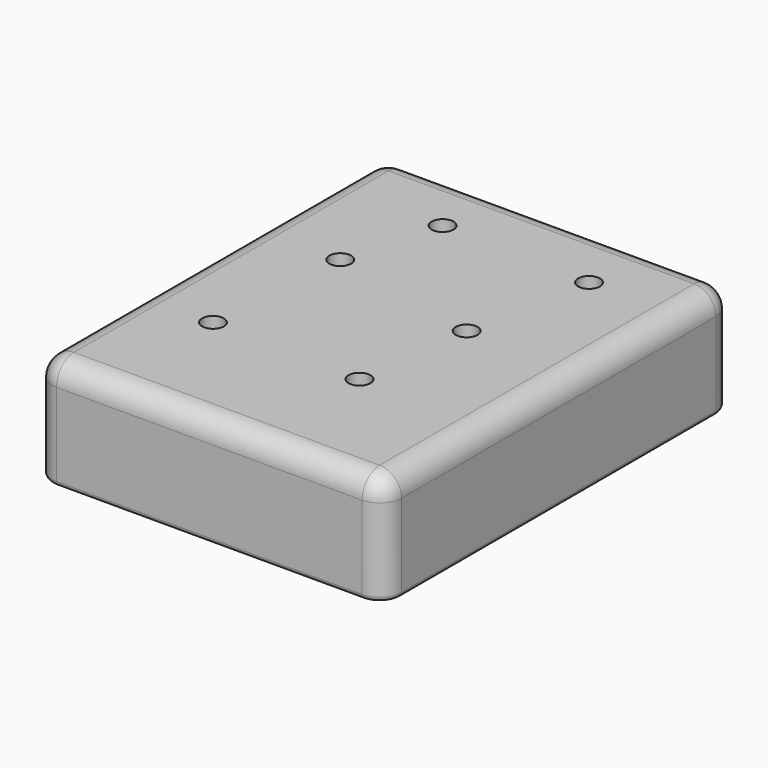
from build123d import *

# Parameters (mm, degrees)
F0_W     = 80
F0_H     = 100
F1_DEPTH = 25
F3_D     = 5
F4_R     = 5
F5_R     = 1


with BuildPart() as f1:
    # F0 (on Top) → F1 (new body)
    with BuildSketch(Plane.XY):
        Rectangle(F0_W, F0_H)
    extrude(amount=F1_DEPTH)

    # F3 (through all)
    with Locations(Plane.XY.offset(25)):
        with Locations((20.013288, 33.698689), (-14.198824, 34.519855), (-20.254316, 12.783873), (14.651208, 5.350997), (11.367732, -21.221405), (-22.844391, -20.400239)):
            Hole(F3_D / 2)

    # F4
    f4_edges = [f1.edges().sort_by_distance(p)[0] for p in [
        (-40, 0, 25),
        (0, 50, 25),
        (40, 0, 25),
        (0, -50, 25),
        (-40, 50, 12.5),
        (-40, -50, 12.5),
        (40, -50, 12.5),
        (40, 50, 12.5),
    ]]
    fillet(f4_edges, radius=F4_R)

    # F5
    f5_edges = [f1.edges().sort_by_distance(p)[0] for p in [
        (-40, 0, 0),
        (-38.535534, 48.535534, 0),
        (-38.535534, -48.535534, 0),
        (0, 50, 0),
        (0, -50, 0),
        (38.535534, 48.535534, 0),
        (38.535534, -48.535534, 0),
        (40, 0, 0),
        (-25.344391, -20.400239, 0),
        (8.867732, -21.221405, 0),
        (12.151208, 5.350997, 0),
        (-22.754316, 12.783873, 0),
        (-16.698824, 34.519855, 0),
        (17.513288, 33.698689, 0),
    ]]
    fillet(f5_edges, radius=F5_R)


solid = f1.part
